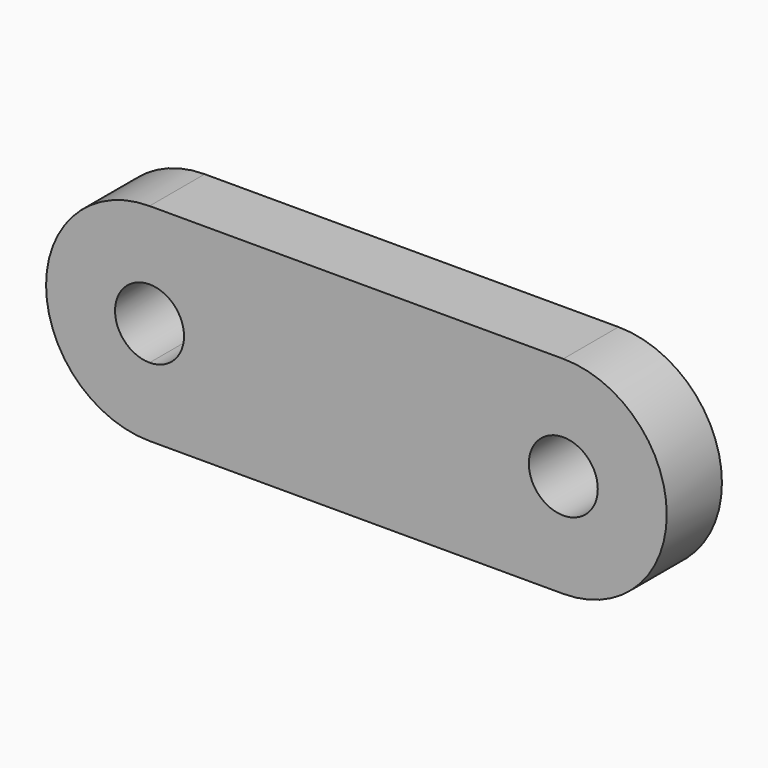
from build123d import *

# Parameters (mm, degrees)
F0_R     = 3.175
F1_DEPTH = 6.35


with BuildPart() as f1:
    # F0 (on Front) → F1 (new body)
    with BuildSketch(Plane.XZ):
        with BuildLine():
            Line((19.05, 9.525), (-19.05, 9.525))
            Line((-19.05, 9.525), (-19.05, 3.175))
            ThreePointArc((-19.05, 3.175), (-16.804936, 2.245064), (-15.875, 0))
            ThreePointArc((-15.875, 0), (-16.804936, -2.245064), (-19.05, -3.175))
            Line((-19.05, -3.175), (-19.05, -9.525))
            Line((-19.05, -9.525), (19.05, -9.525))
            ThreePointArc((19.05, -9.525), (28.575, 0), (19.05, 9.525))
        make_face()
        with Locations((19.05, 0)):
            Circle(F0_R, mode=Mode.SUBTRACT)
        with BuildLine():
            Line((-19.05, 3.175), (-19.05, 9.525))
            ThreePointArc((-19.05, 9.525), (-28.575, 0), (-19.05, -9.525))
            Line((-19.05, -9.525), (-19.05, -3.175))
            ThreePointArc((-19.05, -3.175), (-22.225, 0), (-19.05, 3.175))
        make_face()
    extrude(amount=F1_DEPTH)


solid = f1.part
